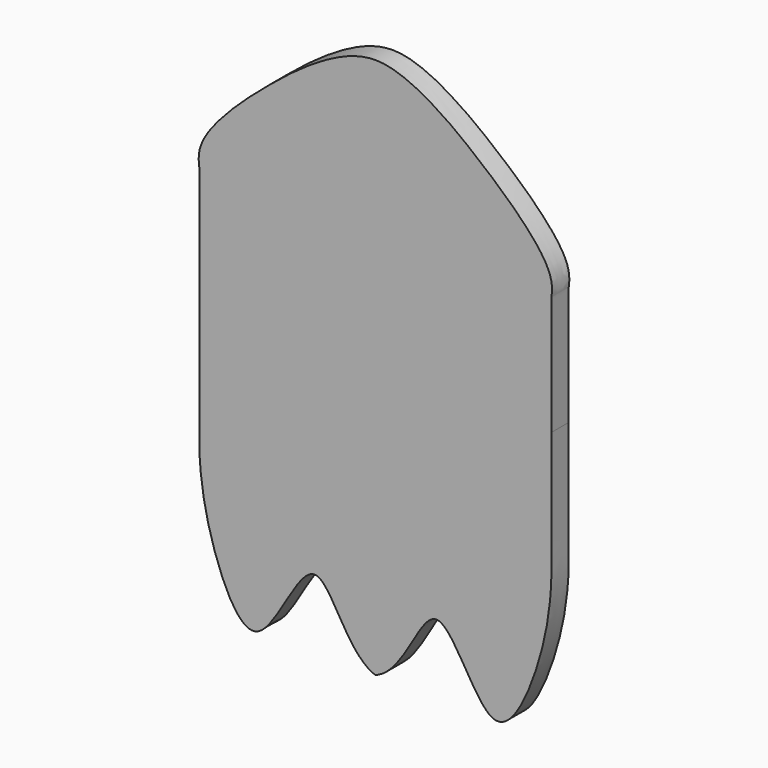
from build123d import *

# Parameters (mm, degrees)
F1_DEPTH = 10.16


with BuildPart() as f1:
    # F0 (on Front) → F1 (new body)
    with BuildSketch(Plane.XZ):
        with BuildLine():
            add(Edge.make_bspline(
                [(-82.55, 0), (-82.5331403559, 8.3887005291), (-82.5584681629, 11.6009736933), (-82.5517447201, 36.0593568119), (-82.5459405343, 35.9760405218), (-82.585876668, 55.6875624655), (-82.5214583874, 55.5849086715), (-84.4113157229, 65.199020679), (-68.8866570208, 84.3974457488), (-46.7583356111, 103.20414326), (-29.2408197824, 116.7396527977), (-9.8062448488, 127), (0, 127)],
                knots=[0, 0, 0, 0, 0.1037306224, 0.222369389, 0.2584618915, 0.3725967522, 0.3806758155, 0.4505705706, 0.5826109339, 0.7270261767, 0.8540661355, 1, 1, 1, 1], degree=3))
            add(Edge.make_bspline(
                [(-82.55, 0), (-82.5989333009, -9.4614689315), (-82.5224526151, -25.2423920156), (-82.5714706951, -43.0139370995), (-82.5058191514, -46.5804920144), (-83.0301917953, -62.8970914899), (-79.5292152215, -95.0251627591), (-55.0957884874, -149.1361236097), (-27.2244711885, -66.7759429806), (-13.8828989955, -122.2195028411), (0, -127)],
                knots=[0, 0, 0, 0, 0.1298794811, 0.2305299588, 0.2765828296, 0.3696404425, 0.5251475025, 0.6738358916, 0.8354748635, 1, 1, 1, 1], degree=3))
            add(Edge.make_bspline(
                [(82.55, 0), (82.5989333009, -9.4614689315), (82.5224526151, -25.2423920156), (82.5714706951, -43.0139370995), (82.5058191514, -46.5804920144), (83.0301917953, -62.8970914899), (79.5292152215, -95.0251627591), (55.0957884874, -149.1361236097), (27.2244711885, -66.7759429806), (13.8828989955, -122.2195028411), (0, -127)],
                knots=[0, 0, 0, 0, 0.1298794811, 0.2305299588, 0.2765828296, 0.3696404425, 0.5251475025, 0.6738358916, 0.8354748635, 1, 1, 1, 1], degree=3))
            add(Edge.make_bspline(
                [(82.55, 0), (82.5331403559, 8.3887005291), (82.5584681629, 11.6009736933), (82.5517447201, 36.0593568119), (82.5459405343, 35.9760405218), (82.585876668, 55.6875624655), (82.5214583874, 55.5849086715), (84.4113157229, 65.199020679), (68.8866570208, 84.3974457488), (46.7583356111, 103.20414326), (29.2408197824, 116.7396527977), (9.8062448488, 127), (0, 127)],
                knots=[0, 0, 0, 0, 0.1037306224, 0.222369389, 0.2584618915, 0.3725967522, 0.3806758155, 0.4505705706, 0.5826109339, 0.7270261767, 0.8540661355, 1, 1, 1, 1], degree=3))
        make_face()
    extrude(amount=F1_DEPTH)


solid = f1.part
